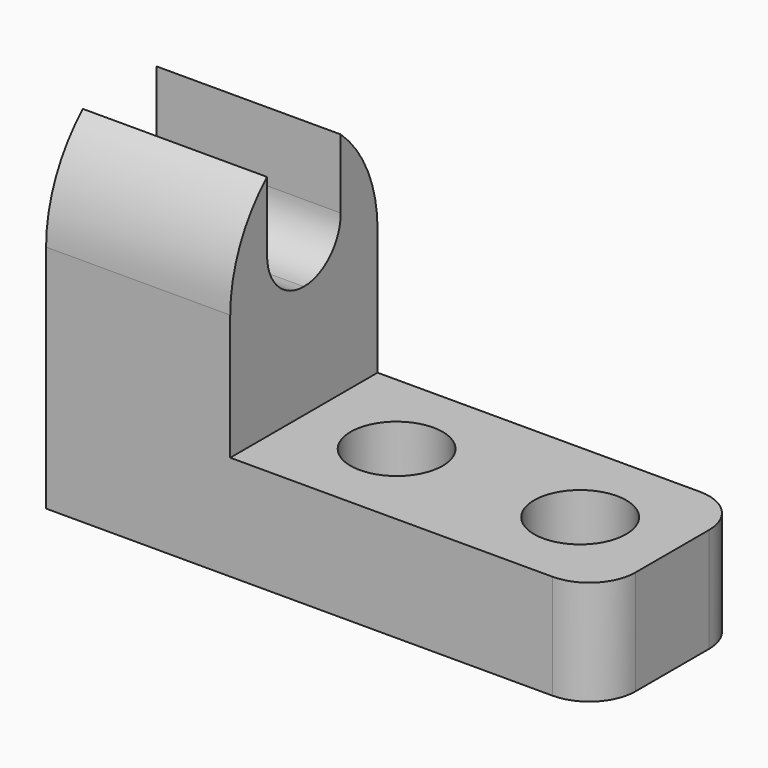
from build123d import *

# Parameters (mm, degrees)
F1_DEPTH = 25.4
F3_DEPTH = 25.4
F5_DEPTH = 25.4
F6_R     = 6.35
F7_DEPTH = 25.4
F8_R     = 6.35
F9_DEPTH = 25.4


with BuildPart() as f1:
    # F0 (on Front) → F1 (new body)
    with BuildSketch(Plane.XZ):
        Polygon((0, 50.8), (0, 0), (76.2, 0), (76.2, 14.440612), (25.4, 14.440612), (25.4, 50.8), align=None)
    extrude(amount=F1_DEPTH)

    # F2 (on face) → F3 (cut)
    with BuildSketch(Plane.YZ.offset(25.4)):
        with BuildLine():
            Line((-25.4, 50.8), (-25.4, 31.75))
            ThreePointArc((-25.4, 31.75), (-21.90426, 42.748523), (-12.7, 49.710512))
            ThreePointArc((-12.7, 49.710512), (-15.828607, 50.525653), (-19.05, 50.8))
            Line((-19.05, 50.8), (-25.4, 50.8))
        make_face()
        with BuildLine():
            ThreePointArc((-6.35, 50.8), (-9.571393, 50.525653), (-12.7, 49.710512))
            ThreePointArc((-12.7, 49.710512), (-3.49574, 42.748523), (0, 31.75))
            Line((0, 31.75), (0, 50.8))
            Line((0, 50.8), (-6.35, 50.8))
        make_face()
        with BuildLine():
            ThreePointArc((-19.05, 50.8), (-15.828607, 50.525653), (-12.7, 49.710512))
            ThreePointArc((-12.7, 49.710512), (-9.571393, 50.525653), (-6.35, 50.8))
            Line((-6.35, 50.8), (-19.05, 50.8))
        make_face()
        with BuildLine():
            ThreePointArc((-19.05, 50.8), (-15.828607, 50.525653), (-12.7, 49.710512))
            ThreePointArc((-12.7, 49.710512), (-9.571393, 50.525653), (-6.35, 50.8))
            Line((-6.35, 50.8), (-19.05, 50.8))
        make_face()
    extrude(amount=-F3_DEPTH, mode=Mode.SUBTRACT)

    # F4 (on face) → F5 (cut)
    with BuildSketch(Plane.YZ.offset(25.4)):
        with BuildLine():
            ThreePointArc((-12.7, 49.710512), (-16.058904, 48.140232), (-19.05, 45.949032))
            Line((-19.05, 45.949032), (-19.05, 36.398523))
            ThreePointArc((-19.05, 36.398523), (-17.190128, 31.908395), (-12.7, 30.048523))
            ThreePointArc((-12.7, 30.048523), (-8.209872, 31.908395), (-6.35, 36.398523))
            Line((-6.35, 36.398523), (-6.35, 45.949032))
            ThreePointArc((-6.35, 45.949032), (-9.341096, 48.140232), (-12.7, 49.710512))
        make_face()
    extrude(amount=-F5_DEPTH, mode=Mode.SUBTRACT)

    # F6 (on face) → F7 (cut)
    with BuildSketch(Plane.XY.offset(14.440612)):
        with Locations((38.1, -12.59214)):
            Circle(F6_R)
        with Locations((63.5, -12.7)):
            Circle(F6_R)
    extrude(amount=-F7_DEPTH, mode=Mode.SUBTRACT)

    # F8 (on face) → F9 (cut)
    with BuildSketch(Plane.XY.offset(14.440612)):
        with Locations((38.1, -12.59214)):
            Circle(F8_R)
        with Locations((63.5, -12.7)):
            Circle(F8_R)
        with BuildLine():
            Line((76.2, 0), (69.85, 0))
            ThreePointArc((69.85, 0), (74.340128, -1.859872), (76.2, -6.35))
            Line((76.2, -6.35), (76.2, 0))
        make_face()
        with BuildLine():
            ThreePointArc((76.2, -19.05), (74.340128, -23.540128), (69.85, -25.4))
            Line((69.85, -25.4), (76.2, -25.4))
            Line((76.2, -25.4), (76.2, -19.05))
        make_face()
    extrude(amount=-F9_DEPTH, mode=Mode.SUBTRACT)


solid = f1.part
